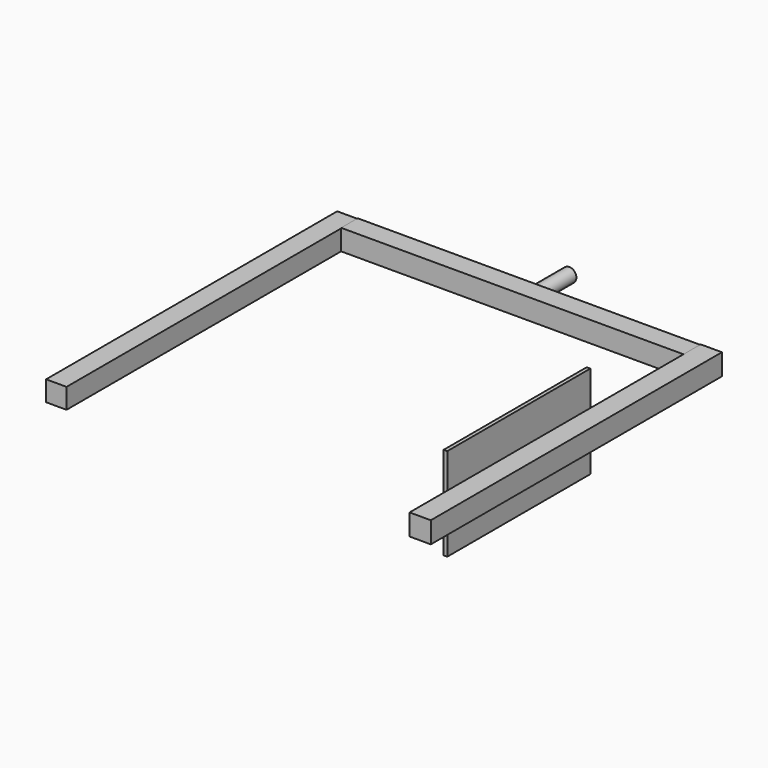
from build123d import *

# Parameters (mm, degrees)
F0_W     = 11.43
F0_H     = 11.285316
F1_DEPTH = 203.2
F2_W     = 11.558608
F2_H     = 11.574684
F3_DEPTH = 203.2
F4_W     = 11.864051
F4_H     = 11.86405
F5_DEPTH = 203.2
F6_W     = 99.82273
F6_H     = 51.891416
F7_DEPTH = 2.032
F8_R     = 3.935821
F9_DEPTH = 25.4


with BuildPart() as f1:
    # F0 (on Front) → F1 (new body)
    with BuildSketch(Plane.XZ):
        with Locations((-5.715, 5.642658)):
            Rectangle(F0_W, F0_H)
    extrude(amount=F1_DEPTH)

    # F2 (on Right) → F3 (join)
    with BuildSketch(Plane.YZ):
        with Locations((-5.779304, 5.787342)):
            Rectangle(F2_W, F2_H)
    extrude(amount=F3_DEPTH)

    # F4 (on Front) → F5 (join)
    with BuildSketch(Plane.XZ):
        with Locations((197.47696, 5.932025)):
            Rectangle(F4_W, F4_H)
    extrude(amount=F5_DEPTH)

    # F6 (on face) → F7 (join)
    with BuildSketch(Plane(origin=(191.544935, 0, 0), x_dir=(0, -1, 0), z_dir=(-1, 0, 0))):
        with Locations((126.978308, 5.327698)):
            Rectangle(F6_W, F6_H)
    extrude(amount=F7_DEPTH)

    # F8 (on face) → F9 (join)
    with BuildSketch(Plane(origin=(0, 0, 0), x_dir=(-1, 0, 0), z_dir=(0, 1, 0))):
        with Locations((-97.89449, 5.208607)):
            Circle(F8_R)
    extrude(amount=F9_DEPTH)


solid = f1.part
